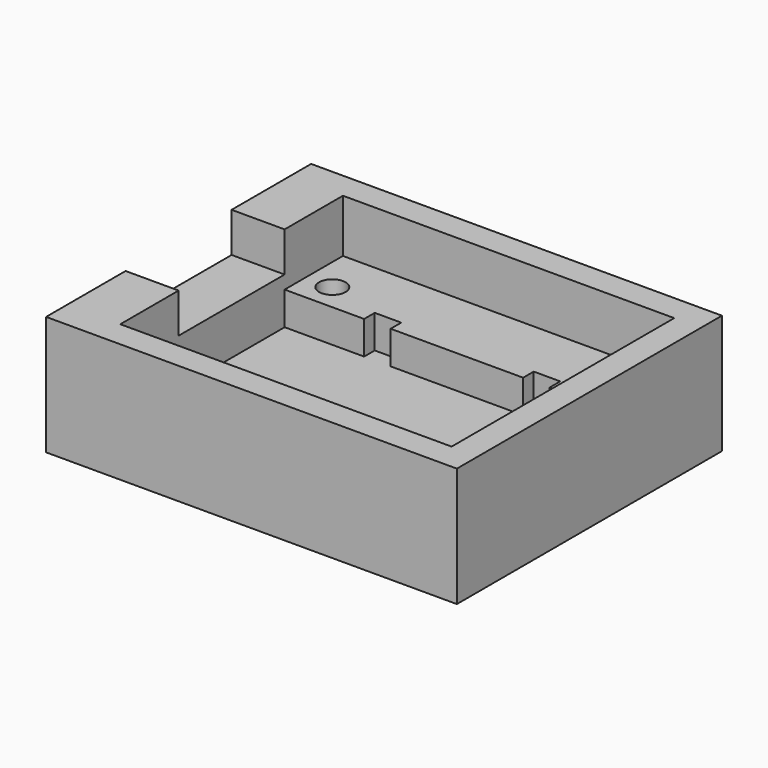
from build123d import *

# Parameters (mm, degrees)
F0_W     = 31
F0_H     = 25
F1_DEPTH = 9
F2_W     = 25
F2_H     = 21
F3_DEPTH = 4
F4_W     = 2
F4_H     = 1
F4_W_2   = 1
F4_H_2   = 10
F5_DEPTH = 6.5
F6_R     = 1
F7_DEPTH = 2
F8_DEPTH = 1
F9_DEPTH = 2


with BuildPart() as f1:
    # F0 (on Top) → F1 (new body)
    with BuildSketch(Plane.XY):
        with Locations((5.1452719867, -1.972973533)):
            Rectangle(F0_W, F0_H)
    extrude(amount=F1_DEPTH)

    # F2 (on face) → F3 (cut)
    with BuildSketch(Plane.XY.offset(9)):
        with Locations((6.1452719867, -1.972973533)):
            Rectangle(F2_W, F2_H)
    extrude(amount=-F3_DEPTH, mode=Mode.SUBTRACT)

    # F4 (on face) → F5 (cut)
    with BuildSketch(Plane.XY.offset(9)):
        with Locations((0.6452719867, 3.527026467)):
            Rectangle(F4_W, F4_H)
        with Locations((12.6452719867, 3.527026467)):
            Rectangle(F4_W, F4_H)
        with Locations((0.6452719867, -7.472973533)):
            Rectangle(F4_W, F4_H)
        with Locations((12.6452719867, -7.472973533)):
            Rectangle(F4_W, F4_H)
        with Locations((17.1452719867, -1.972973533)):
            Rectangle(F4_W_2, F4_H_2)
        Polygon((1.6452719867, 3.027026467), (-0.3547280133, 3.027026467), (-6.3547280133, 3.027026467), (-6.3547280133, -6.972973533), (-0.3547280133, -6.972973533), (1.6452719867, -6.972973533), (11.6452719867, -6.972973533), (13.6452719867, -6.972973533), (16.6452719867, -6.972973533), (16.6452719867, 3.027026467), (13.6452719867, 3.027026467), (11.6452719867, 3.027026467), align=None)
    extrude(amount=-F5_DEPTH, mode=Mode.SUBTRACT)

    # F6 (on face) → F7 (cut)
    with BuildSketch(Plane.XY.offset(5)):
        with Locations((-4.3547280133, 5.027026467)):
            Circle(F6_R)
        with Locations((16.1452719867, 5.027026467)):
            Circle(F6_R)
        with Locations((-4.3547280133, -8.972973533)):
            Circle(F6_R)
        with Locations((16.1452719867, -8.972973533)):
            Circle(F6_R)
    extrude(amount=-F7_DEPTH, mode=Mode.SUBTRACT)

    # F4 (on face) → F8 (cut)
    with BuildSketch(Plane.XY.offset(9)):
        Polygon((-0.3547280133, 3.027026467), (-10.3547280133, 3.027026467), (-10.3547280133, -6.972973533), (-0.3547280133, -6.972973533), (1.6452719867, -6.972973533), (11.6452719867, -6.972973533), (13.6452719867, -6.972973533), (16.6452719867, -6.972973533), (16.6452719867, 3.027026467), (13.6452719867, 3.027026467), (11.6452719867, 3.027026467), (1.6452719867, 3.027026467), align=None)
        with Locations((0.6452719867, 3.527026467)):
            Rectangle(F4_W, F4_H)
        with Locations((0.6452719867, -7.472973533)):
            Rectangle(F4_W, F4_H)
        with Locations((12.6452719867, 3.527026467)):
            Rectangle(F4_W, F4_H)
        with Locations((12.6452719867, -7.472973533)):
            Rectangle(F4_W, F4_H)
        with Locations((17.1452719867, -1.972973533)):
            Rectangle(F4_W_2, F4_H_2)
    extrude(amount=-F8_DEPTH, mode=Mode.SUBTRACT)

    # F9 (cut): a face of the model
    f9_faces = [f1.faces().sort_by_distance(p)[0] for p in [
        (-8.3547280133, -1.972973533, 8),
    ]]
    extrude(f9_faces, amount=-F9_DEPTH, mode=Mode.SUBTRACT)


solid = f1.part
